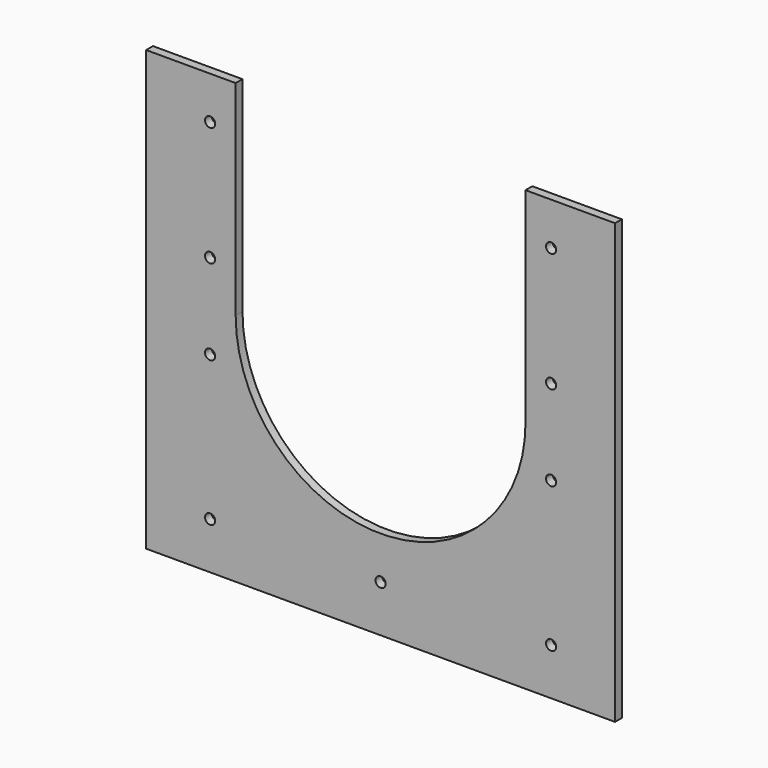
from build123d import *

# Parameters (mm, degrees)
SKETCH005_R      = 6
EXTRUDE004_DEPTH = 1000
EXTRUDE003_DEPTH = 1000
SKETCH003_W      = 550
SKETCH003_H      = 10
EXTRUDE002_DEPTH = 515


with BuildPart() as extrude004:
    # Sketch005 → Extrude004 (new body)
    with BuildSketch(Plane.XZ.offset(1530.409781)):
        with Locations((-200, 1730)):
            Circle(SKETCH005_R)
        with Locations((-200, 1870)):
            Circle(SKETCH005_R)
        with Locations((200, 1870)):
            Circle(SKETCH005_R)
        with Locations((200, 1730)):
            Circle(SKETCH005_R)
        with Locations((-200, 1630)):
            Circle(SKETCH005_R)
        with Locations((-200, 1460)):
            Circle(SKETCH005_R)
        with Locations((200, 1630)):
            Circle(SKETCH005_R)
        with Locations((200, 1460)):
            Circle(SKETCH005_R)
        with Locations((0, 1460)):
            Circle(SKETCH005_R)
    extrude(amount=-EXTRUDE004_DEPTH)


with BuildPart() as extrude003:
    # Sketch004 → Extrude003 (new body)
    with BuildSketch(Plane.XZ.offset(1530.409781)):
        with BuildLine():
            Line((-170, 1920), (-170, 1680))
            ThreePointArc((-170, 1680), (-4.8e-05, 1510), (170, 1679.999905))
            Line((170, 1679.999905), (170, 1920))
            Line((170, 1920), (-170, 1920))
        make_face()
    extrude(amount=-EXTRUDE003_DEPTH)


with BuildPart() as cut002:
    # Sketch003 → Extrude002 (new body)
    with BuildSketch(Plane.XY.offset(1405)):
        with Locations((0, -1270.580576)):
            Rectangle(SKETCH003_W, SKETCH003_H)
    extrude(amount=EXTRUDE002_DEPTH)

    # Cut001: cut Extrude003
    add(extrude003.part, mode=Mode.SUBTRACT)

    # Cut002: cut Extrude004
    add(extrude004.part, mode=Mode.SUBTRACT)


solid = cut002.part
